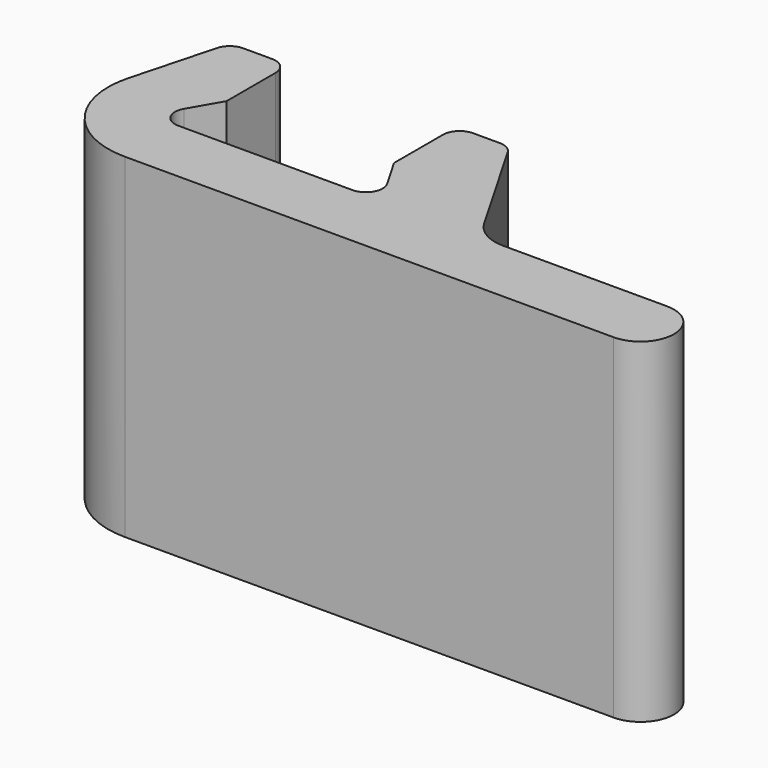
from build123d import *

# Parameters (mm, degrees)
F1_DEPTH = 12.7


with BuildPart() as f1:
    # F0 (on Top) → F1 (new body)
    with BuildSketch(Plane.XY):
        with BuildLine():
            Line((3.302, 0), (-3.302, 0))
            ThreePointArc((-3.302, 0), (-3.851926, 0.3175), (-3.851926, 0.9525))
            Line((-3.851926, 0.9525), (-3.175, 2.12497))
            Line((-3.175, 2.12497), (-3.175, 4.445))
            ThreePointArc((-3.175, 4.445), (-3.360987, 4.894013), (-3.81, 5.08))
            Line((-3.81, 5.08), (-4.910715, 5.08))
            ThreePointArc((-4.910715, 5.08), (-5.297279, 4.948779), (-5.524078, 4.60935))
            Line((-5.524078, 4.60935), (-6.368814, 1.45675))
            ThreePointArc((-6.368814, 1.45675), (-5.820897, -1.297818), (-3.302, -2.54))
            Line((-3.302, -2.54), (15.24, -2.54))
            ThreePointArc((15.24, -2.54), (16.51, -1.27), (15.24, 0))
            Line((15.24, 0), (9.005439, 0))
            ThreePointArc((9.005439, 0), (8.243439, 0.204177), (7.685616, 0.762))
            Line((7.685616, 0.762), (5.375926, 4.7625))
            ThreePointArc((5.375926, 4.7625), (5.1435, 4.994926), (4.826, 5.08))
            Line((4.826, 5.08), (3.81, 5.08))
            ThreePointArc((3.81, 5.08), (3.360987, 4.894013), (3.175, 4.445))
            Line((3.175, 4.445), (3.175, 2.12497))
            Line((3.175, 2.12497), (3.851926, 0.9525))
            ThreePointArc((3.851926, 0.9525), (3.851926, 0.3175), (3.302, 0))
        make_face()
    extrude(amount=F1_DEPTH)


solid = f1.part
